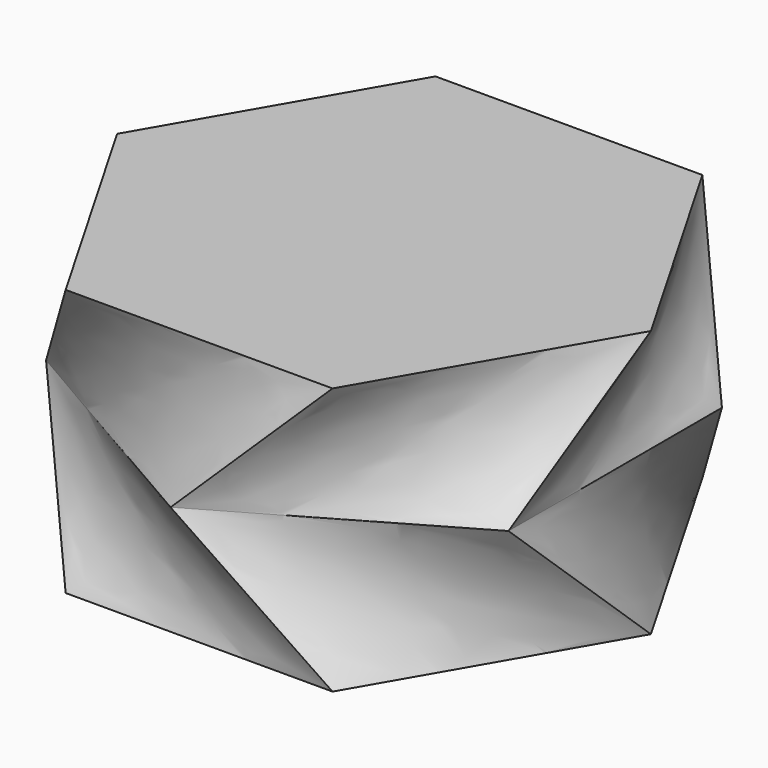
from build123d import *


with BuildPart() as f3:
    # F0 (on Top) → F3 section 0
    with BuildSketch(Plane.XY):
        Polygon((12.7, 21.9970452561), (-12.7, 21.9970452561), (-25.4, 0), (-12.7, -21.9970452561), (12.7, -21.9970452561), (25.4, 0), align=None)
    # F2 (on offset) → F3 section 1
    with BuildSketch(Plane.XY.offset(12.7)):
        Polygon((-0.0081428164, 25.3999986948), (-22.001115534, 12.6929474615), (-21.9929727176, -12.7070512333), (0.0081428164, -25.3999986948), (22.001115534, -12.6929474615), (21.9929727176, 12.7070512333), align=None)
    loft()

    # F3_face (on face) → F6 section 0
    with BuildSketch(Plane.XY.offset(12.7)):
        Polygon((21.9929727176, 12.7070512333), (-0.0081428164, 25.3999986948), (-22.001115534, 12.6929474615), (-21.9929727176, -12.7070512333), (0.0081428164, -25.3999986948), (22.001115534, -12.6929474615), align=None)
    # F5 (on offset) → F6 section 1
    with BuildSketch(Plane.XY.offset(25.4)):
        Polygon((12.7, 21.9970452561), (-12.7, 21.9970452561), (-25.4, 0), (-12.7, -21.9970452561), (12.7, -21.9970452561), (25.4, 0), align=None)
    loft()


solid = f3.part
